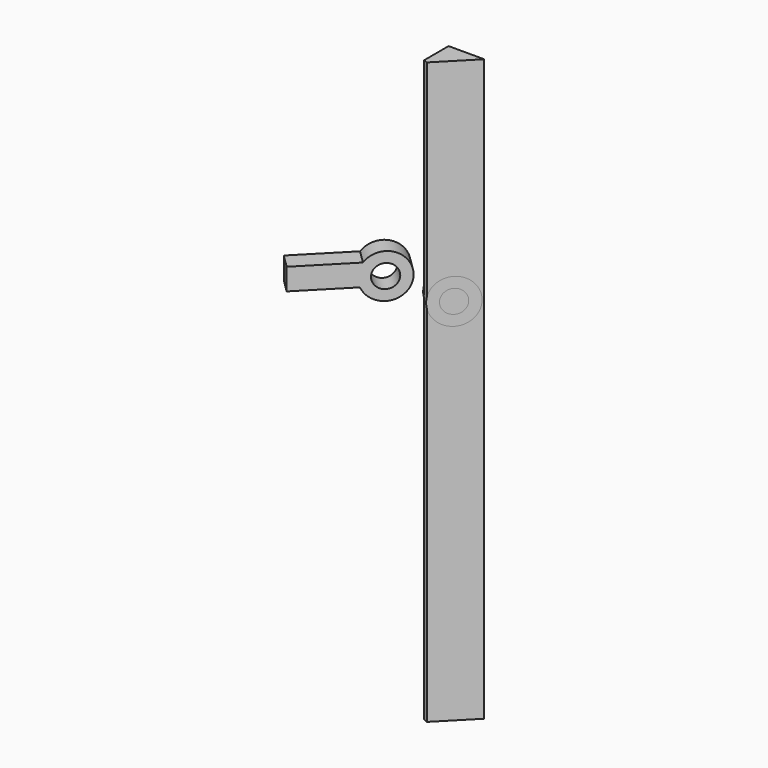
from build123d import *

# Parameters (mm, degrees)
F1_DEPTH = 508
F2_R     = 19.283354884
F2_R_2   = 10.0793696438
F3_DEPTH = 16.764
F5_W     = 54.5298345387
F5_H     = 19.0050303936
F6_DEPTH = 16.764
F7_SIZE  = 5.08


with BuildPart() as f1:
    # F0 (on Top) → F1 (new body)
    with BuildSketch(Plane.XY):
        Polygon((0, 31.7575223744), (0, 0), (31.1887338758, 31.7575223744), align=None)
    extrude(amount=F1_DEPTH)

    # F7
    f7_edges = [f1.edges().sort_by_distance(p)[0] for p in [
        (0, 0, 254),
    ]]
    chamfer(f7_edges, length=F7_SIZE)


with BuildPart() as f3:
    # F2 (on face) → F3 (new body)
    with BuildSketch(Plane(origin=(0, 0, 0), x_dir=(0.7006886901, 0.7134671398, 0), z_dir=(0.7134671398, -0.7006886901, 0))):
        with Locations((23.7760990858, 322.7989673615)):
            Circle(F2_R)
        with Locations((23.7760990858, 322.7989673615)):
            Circle(F2_R_2, mode=Mode.SUBTRACT)
    extrude(amount=-F3_DEPTH)


with BuildPart() as f4_1:
    # F4: copy of F3
    add(f3.part.moved(Location((-59.944, 0, 0))))

    # F5 (on face) → F6 (join, through all)
    with BuildSketch(Plane(origin=(-30.5136155954, 29.9671059088, 0), x_dir=(0.7006886901, 0.7134671398, 0), z_dir=(0.7134671398, -0.7006886901, 0))):
        with Locations((-59.038868174, 324.6708959341)):
            Rectangle(F5_W, F5_H)
    extrude(amount=-F6_DEPTH)


solid = Compound([f1.part, f3.part, f4_1.part])
